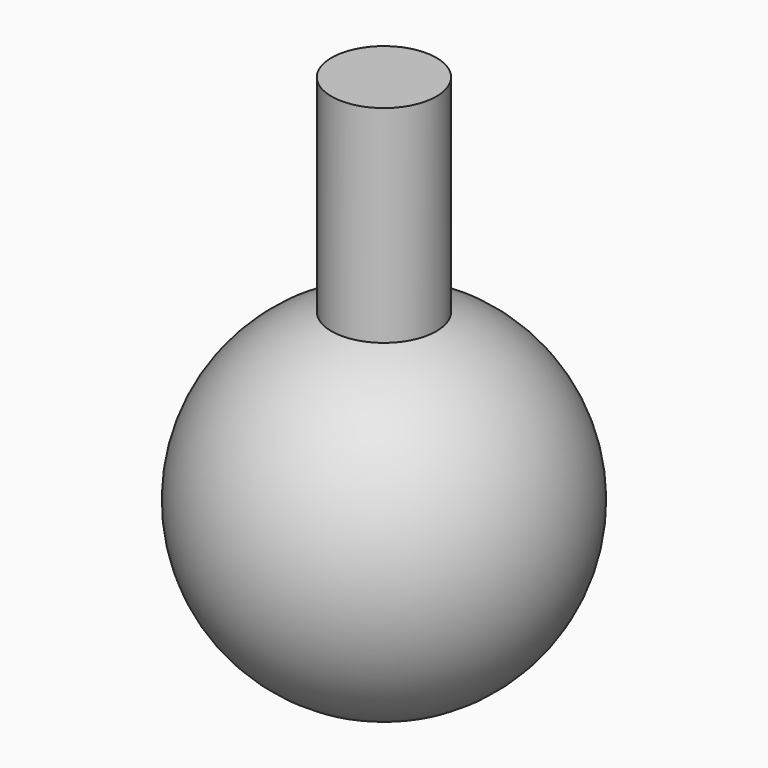
from build123d import *

# Parameters (mm, degrees)
F3_R     = 19.190906
F4_DEPTH = 136.144


with BuildPart() as f2:
    # F0 (on Front) → F2 (revolve)
    with BuildSketch(Plane.XZ):
        with BuildLine():
            Line((0, 0), (0, 63.5))
            ThreePointArc((0, 63.5), (-63.5, 0), (0, -63.5))
            Line((0, -63.5), (0, 0))
        make_face()
    revolve(axis=Axis((0, 0, 31.013401), (0, 0, -1)))

    # F3 (on Top) → F4 (join)
    with BuildSketch(Plane.XY):
        Circle(F3_R)
    extrude(amount=F4_DEPTH)


solid = f2.part
